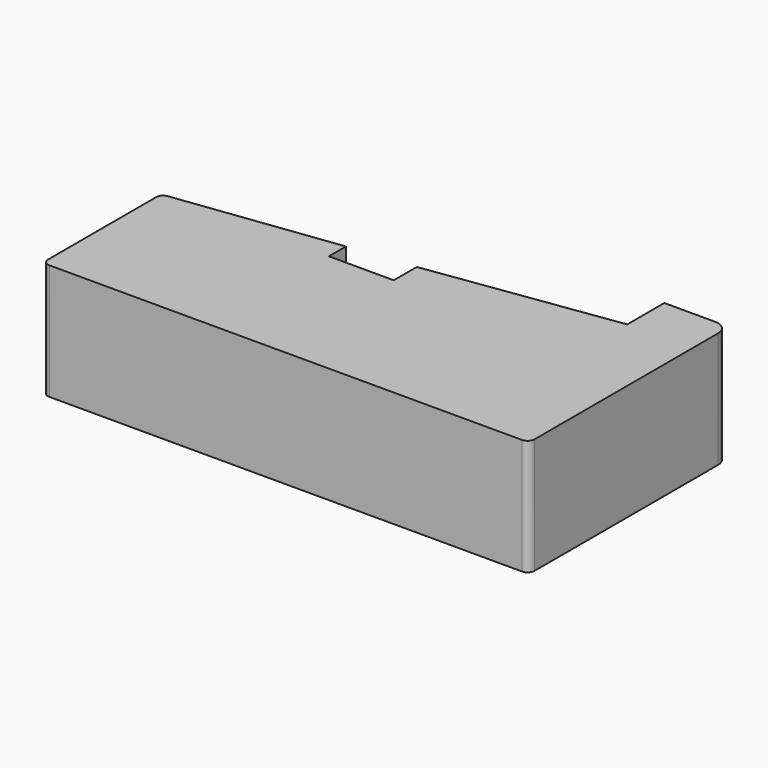
from build123d import *

# Parameters (mm, degrees)
F1_DEPTH = 25


with BuildPart() as f1:
    # F0 (on Top) → F1 (new body)
    with BuildSketch(Plane.XY):
        with BuildLine():
            ThreePointArc((-55.021506, 32.166502), (-55.958015, 31.67005), (-56.33252, 30.678455))
            Line((-56.33252, 30.678455), (-56.33252, 1.5))
            ThreePointArc((-56.33252, 1.5), (-55.89318, 0.43934), (-54.83252, 0))
            Line((-54.83252, 0), (47.16748, 0))
            ThreePointArc((47.16748, 0), (48.228141, 0.43934), (48.66748, 1.5))
            Line((48.66748, 1.5), (48.66748, 51))
            ThreePointArc((48.66748, 51), (47.788801, 53.12132), (45.66748, 54))
            Line((45.66748, 54), (34.66748, 54))
            Line((34.66748, 54), (34.66748, 44))
            Line((34.66748, 44), (-6.117023, 38.210268))
            Line((-6.117023, 38.210268), (-6.117023, 32))
            Line((-6.117023, 32), (-20.117023, 32))
            Line((-20.117023, 32), (-20.117023, 36.599465))
            Line((-20.117023, 36.599465), (-55.021506, 32.166502))
        make_face()
    extrude(amount=F1_DEPTH)


solid = f1.part
